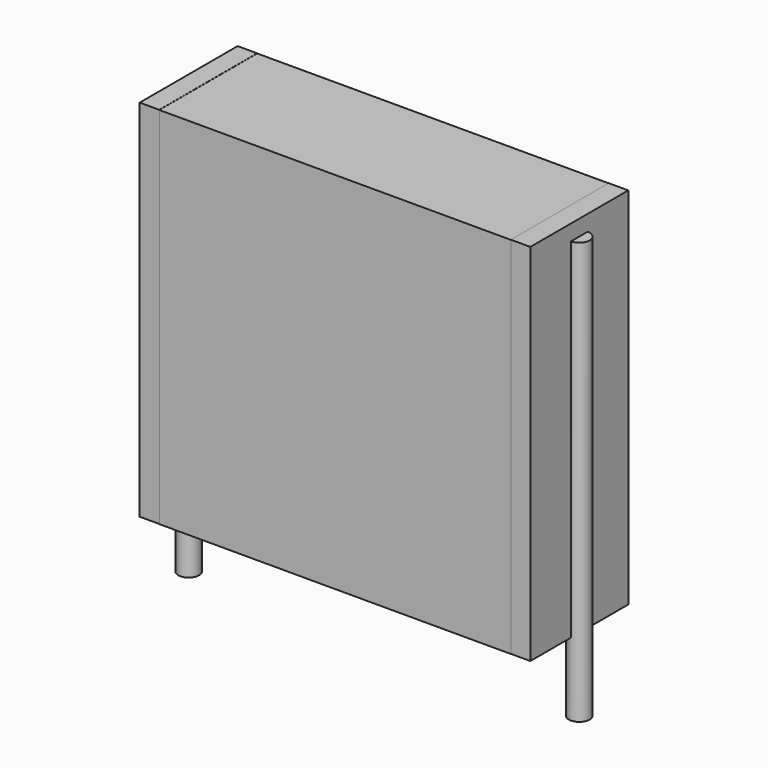
from build123d import *

# Parameters (mm, degrees)
SKETCH_W          = 13.5
SKETCH_H          = 4.7
PAD_DEPTH         = 14
SKETCH001_R       = 0.4
PAD001_DEPTH      = 13
PAD001_DEPTH_BACK = 3.2
SKETCH002_W       = 0.75
SKETCH002_H       = 4.7
PAD002_DEPTH      = 14


with BuildPart() as pad:
    # Sketch → Pad (new body)
    with BuildSketch(Plane.XY.offset(0.1)):
        with Locations((7.5, 0)):
            Rectangle(SKETCH_W, SKETCH_H)
    extrude(amount=PAD_DEPTH)


with BuildPart() as pad001:
    # Sketch001 → Pad001 (new body, two sides)
    with BuildSketch(Plane.XY.offset(0.5)) as pad001_sk:
        Circle(SKETCH001_R)
        with Locations((15, 0)):
            Circle(SKETCH001_R)
    extrude(amount=PAD001_DEPTH)
    extrude(pad001_sk.sketch, amount=-PAD001_DEPTH_BACK)


with BuildPart() as pad002:
    # Sketch002 → Pad002 (new body)
    with BuildSketch(Plane.XY.offset(0.105)):
        with Locations((0.375, 0)):
            Rectangle(SKETCH002_W, SKETCH002_H)
        with Locations((14.625, 0)):
            Rectangle(SKETCH002_W, SKETCH002_H)
    extrude(amount=PAD002_DEPTH)


solid = Compound([pad.part, pad001.part, pad002.part])
